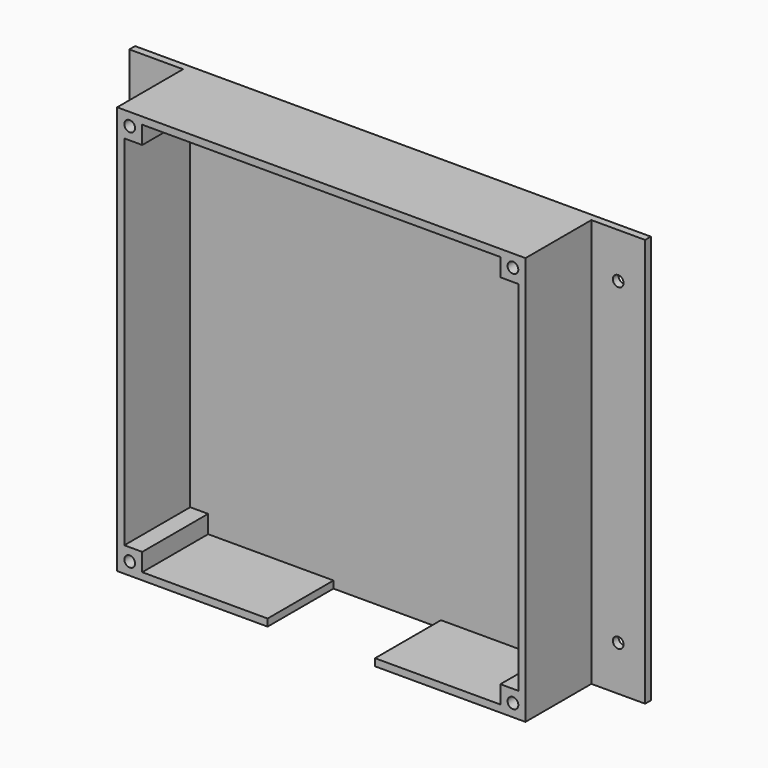
from build123d import *

# Parameters (mm, degrees)
F0_W      = 110
F0_H      = 110
F1_DEPTH  = 2
F2_W      = 110
F2_H      = 110
F3_DEPTH  = 25
F4_W      = 5
F4_H      = 5
F5_DEPTH  = 23
F6_R      = 1.5
F7_DEPTH  = 10
F8_W      = 15
F8_H      = 114
F9_DEPTH  = 2
F10_R     = 1.5
F11_DEPTH = 2.001
F12_W     = 30
F12_H     = 2
F13_DEPTH = 23
F14_R     = 2
F15_DEPTH = 2.001


with BuildPart() as f1:
    # F0 (on Front) → F1 (new body)
    with BuildSketch(Plane.XZ):
        Rectangle(F0_W, F0_H)
    extrude(amount=F1_DEPTH)

    # F2 (on Front) → F3 (join)
    with BuildSketch(Plane.XZ):
        Polygon((57, 57), (55, 57), (-55, 57), (-57, 57), (-57, 55), (-57, -55), (-57, -57), (-55, -57), (55, -57), (57, -57), (57, -55), (57, 55), align=None)
        Rectangle(F2_W, F2_H, mode=Mode.SUBTRACT)
    extrude(amount=F3_DEPTH)

    # F4 (on face) → F5 (join)
    with BuildSketch(Plane.XZ.offset(2)):
        with Locations((-52.5, 52.5)):
            Rectangle(F4_W, F4_H)
        with Locations((52.5, 52.5)):
            Rectangle(F4_W, F4_H)
        with Locations((-52.5, -52.5)):
            Rectangle(F4_W, F4_H)
        with Locations((52.5, -52.5)):
            Rectangle(F4_W, F4_H)
    extrude(amount=F5_DEPTH)

    # F6 (on face) → F7 (cut)
    with BuildSketch(Plane.XZ.offset(25)):
        with Locations((-53.5, 53.5)):
            Circle(F6_R)
        with Locations((53.5, 53.5)):
            Circle(F6_R)
        with Locations((-53.5, -53.5)):
            Circle(F6_R)
        with Locations((53.5, -53.5)):
            Circle(F6_R)
    extrude(amount=-F7_DEPTH, mode=Mode.SUBTRACT)

    # F8 (on Front) → F9 (join)
    with BuildSketch(Plane.XZ):
        with Locations((-64.5, 0)):
            Rectangle(F8_W, F8_H)
        with Locations((64.5, 0)):
            Rectangle(F8_W, F8_H)
    extrude(amount=F9_DEPTH)

    # F10 (on face) → F11 (cut, through all)
    with BuildSketch(Plane.XZ.offset(2)):
        with Locations((-64.5, 44.430215)):
            Circle(F10_R)
        with Locations((64.5, 44.430215)):
            Circle(F10_R)
        with Locations((-64.5, -44.430215)):
            Circle(F10_R)
        with Locations((64.5, -44.430215)):
            Circle(F10_R)
    extrude(amount=-F11_DEPTH, mode=Mode.SUBTRACT)

    # F12 (on face) → F13 (cut)
    with BuildSketch(Plane.XZ.offset(25)):
        with Locations((0, -56)):
            Rectangle(F12_W, F12_H)
    extrude(amount=-F13_DEPTH, mode=Mode.SUBTRACT)

    # F14 (on face) → F15 (cut, through all)
    with BuildSketch(Plane.XZ.offset(2)):
        with Locations((43.708343, 30)):
            Circle(F14_R)
        with Locations((43.708343, -30)):
            Circle(F14_R)
    extrude(amount=-F15_DEPTH, mode=Mode.SUBTRACT)


solid = f1.part
